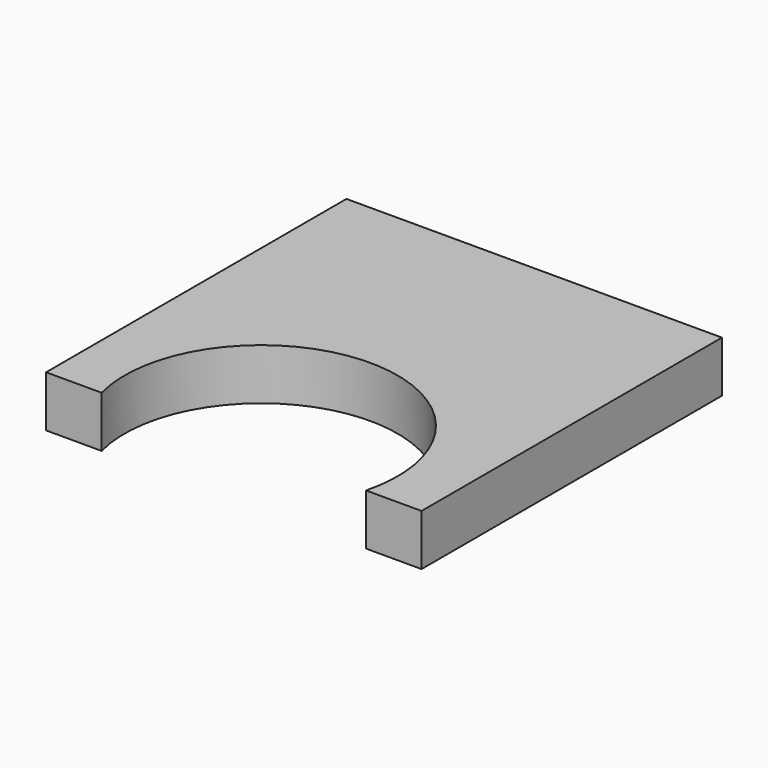
from build123d import *

# Parameters (mm, degrees)
F1_DEPTH = 19.05


with BuildPart() as f1:
    # F0 (on Top) → F1 (new body)
    with BuildSketch(Plane.XY):
        with BuildLine():
            Line((49.186888, -69.85), (69.85, -69.85))
            Line((69.85, -69.85), (69.85, 69.85))
            Line((69.85, 69.85), (-69.85, 69.85))
            Line((-69.85, 69.85), (-69.85, -69.85))
            Line((-69.85, -69.85), (-49.186888, -69.85))
            ThreePointArc((-49.186888, -69.85), (0, -6.35), (49.186888, -69.85))
        make_face()
    extrude(amount=F1_DEPTH)


solid = f1.part
